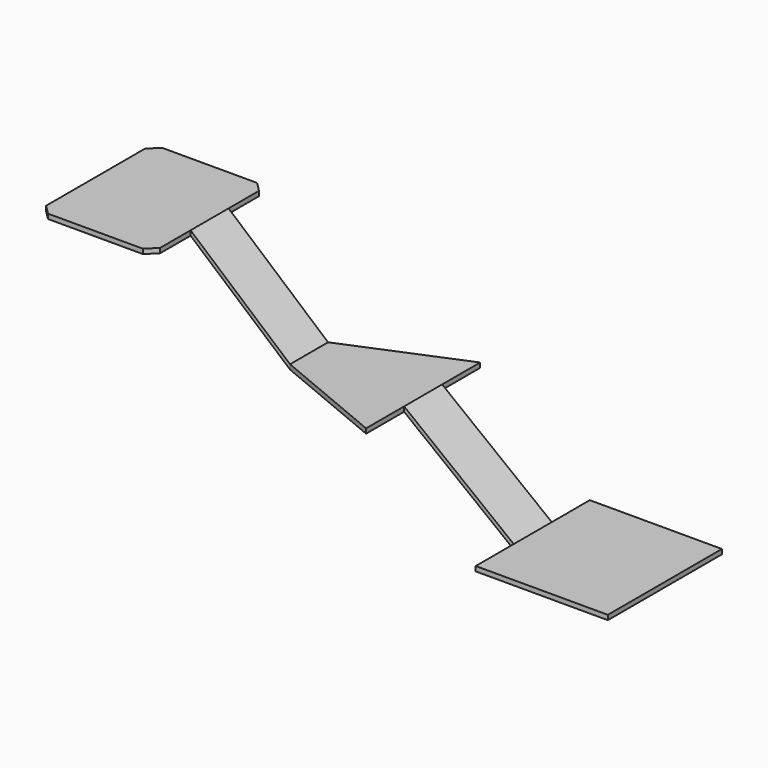
from build123d import *

# Parameters (mm, degrees)
F2_W      = 127
F2_H      = 12.7
F4_W      = 127
F4_H      = 12.7
F7_FACE_W = 127
F7_FACE_H = 12.7
F6_W      = 381
F6_H      = 12.7
F9_W      = 381
F9_H      = 12.7
F10_DEPTH = 304.8
F11_SIZE  = 25.4
F13_W     = 127
F13_H     = 12.7
F15_W     = 381
F15_H     = 12.7
F16_DEPTH = 353.06


with BuildPart() as f7:
    # F2 (on line) → F7 section 0
    with BuildSketch(Plane(origin=(-457.2, 0, 0), x_dir=(0, -1, 0), z_dir=(-1, 0, 0))):
        with Locations((0, 228.6)):
            Rectangle(F2_W, F2_H)
    # F4 (on line) → F7 section 1
    with BuildSketch(Plane(origin=(-191.3811564445, 0, 0), x_dir=(0, -1, 0), z_dir=(-1, 0, 0))):
        Rectangle(F4_W, F4_H)
    loft()

    # F7_face (on face) → F8 section 0
    with BuildSketch(Plane.YZ.offset(-191.3811564445)):
        Rectangle(F7_FACE_W, F7_FACE_H)
    # F6 (on line) → F8 section 1
    with BuildSketch(Plane(origin=(113.4188435555, 0, 0), x_dir=(0, -1, 0), z_dir=(-1, 0, 0))):
        Rectangle(F6_W, F6_H)
    loft()

    # F9 (on line) → F10 (join, through all)
    with BuildSketch(Plane(origin=(-457.2, 0, 0), x_dir=(0, -1, 0), z_dir=(-1, 0, 0))):
        with Locations((0, 228.6)):
            Rectangle(F9_W, F9_H)
    extrude(amount=F10_DEPTH)

    # F11
    f11_edges = [f7.edges().sort_by_distance(p)[0] for p in [
        (-457.2, -190.5, 228.6),
        (-762, -190.5, 228.6),
        (-457.2, 190.5, 228.6),
        (-762, 190.5, 228.6),
    ]]
    chamfer(f11_edges, length=F11_SIZE)

    # F14: sweep along a path in F0
    with BuildLine(Plane.XZ) as f14_path:
        Line((113.4188435555, 0), (406.4, -228.6))
    # F13 (on line) → F14 (sweep)
    with BuildSketch(Plane.YZ.offset(406.4)):
        with Locations((0, -228.6)):
            Rectangle(F13_W, F13_H)
    sweep(path=f14_path.line)

    # F15 (on line) → F16 (join)
    with BuildSketch(Plane.YZ.offset(406.4)):
        with Locations((0, -228.6)):
            Rectangle(F15_W, F15_H)
    extrude(amount=F16_DEPTH)


solid = f7.part
